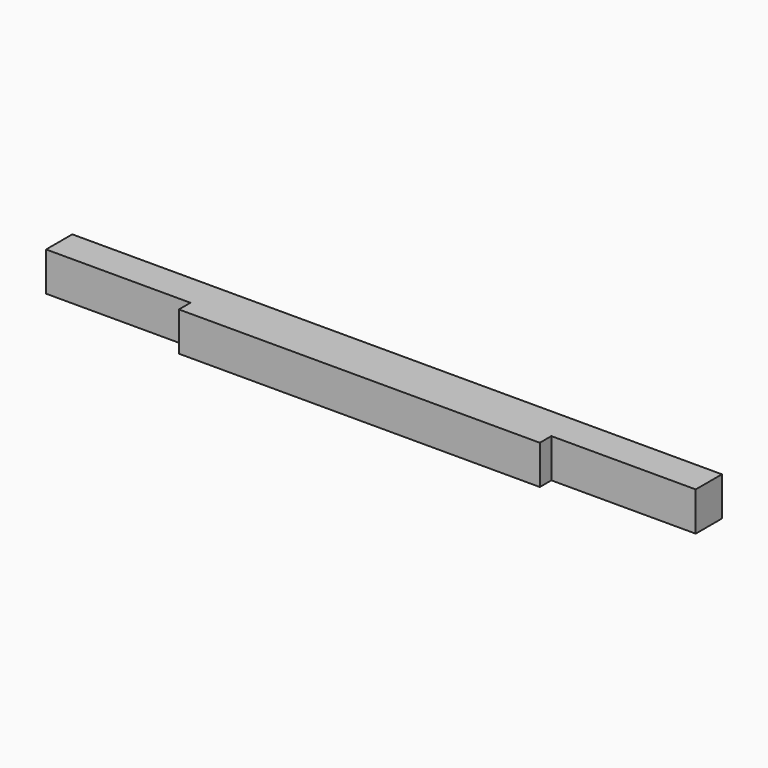
from build123d import *

# Parameters (mm, degrees)
F0_W     = 3.268421
F0_H     = 2.7
F1_DEPTH = 45
F2_W     = 10
F2_H     = 2.7
F3_DEPTH = 1


with BuildPart() as f1:
    # F0 (on Right) → F1 (new body)
    with BuildSketch(Plane.YZ):
        with Locations((1.634211, 1.35)):
            Rectangle(F0_W, F0_H)
    extrude(amount=F1_DEPTH)

    # F2 (on face) → F3 (cut)
    with BuildSketch(Plane.XZ):
        with Locations((40, 1.35)):
            Rectangle(F2_W, F2_H)
        with Locations((5, 1.35)):
            Rectangle(F2_W, F2_H)
    extrude(amount=-F3_DEPTH, mode=Mode.SUBTRACT)


solid = f1.part
